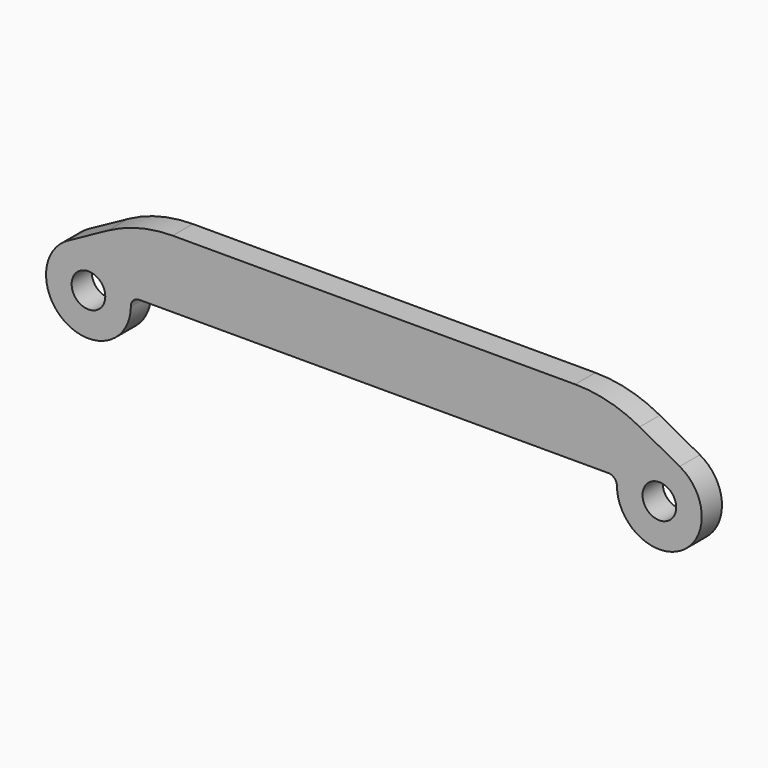
from build123d import *

# Parameters (mm, degrees)
F0_R     = 1.5875
F1_DEPTH = 1.190625
F2_R     = 12.7
F3_R     = 0.8128


with BuildPart() as f1:
    # F0 (on Front) → F1 (new body, symmetric)
    with BuildSketch(Plane.XZ):
        with BuildLine():
            Line((22.225, 0), (-22.225, 0))
            Line((-22.225, 0), (-28.841566, -3.613725))
            ThreePointArc((-28.841566, -3.613725), (-28.969109, -10.562945), (-22.92351, -7.133854))
            Line((-22.92351, -7.133854), (-22.92351, -6.35))
            Line((-22.92351, -6.35), (22.92351, -6.35))
            Line((22.92351, -6.35), (22.92351, -7.133854))
            ThreePointArc((22.92351, -7.133854), (28.969109, -10.562945), (28.841566, -3.613725))
            Line((28.841566, -3.613725), (22.225, 0))
        make_face()
        with Locations((-26.924, -7.1247)):
            Circle(F0_R, mode=Mode.SUBTRACT)
        with Locations((26.924, -7.1247)):
            Circle(F0_R, mode=Mode.SUBTRACT)
    extrude(amount=F1_DEPTH, both=True)

    # F2
    f2_edges = [f1.edges().sort_by_distance(p)[0] for p in [
        (22.225, 0, 0),
        (-22.225, 0, 0),
    ]]
    fillet(f2_edges, radius=F2_R)

    # F3
    f3_edges = [f1.edges().sort_by_distance(p)[0] for p in [
        (-22.92351, 0, -6.35),
        (22.92351, 0, -6.35),
    ]]
    fillet(f3_edges, radius=F3_R)


solid = f1.part
